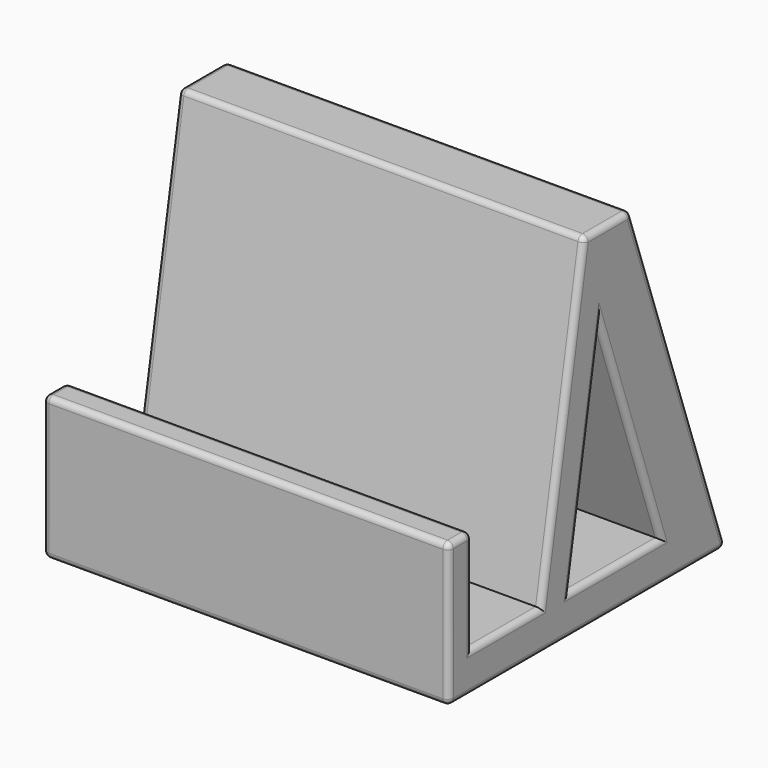
from build123d import *

# Parameters (mm, degrees)
F1_DEPTH = 88.9
F2_R     = 1.27


with BuildPart() as f1:
    # F0 (on Right) → F1 (new body)
    with BuildSketch(Plane.YZ):
        Polygon((0, 31.359232), (0, 0), (76.2, 0), (49.868776, 75.47603), (37.168776, 75.47603), (25.4, 8.731987), (6.35, 8.731987), (6.35, 31.359232), align=None)
        Polygon((33.137551, 8.731987), (41.547297, 56.42603), (58.127036, 8.731987), align=None, mode=Mode.SUBTRACT)
    extrude(amount=F1_DEPTH)

    # F2
    f2_edges = [f1.edges().sort_by_distance(p)[0] for p in [
        (88.9, 31.284388, 42.104009),
        (88.9, 63.034388, 37.738015),
        (88.9, 49.837166, 32.579009),
        (88.9, 37.342424, 32.579009),
        (44.45, 49.868776, 75.47603),
        (0, 63.034388, 37.738015),
        (0, 6.35, 20.04561),
        (0, 3.175, 31.359232),
        (0, 0, 15.679616),
        (0, 38.1, 0),
        (0, 43.518776, 75.47603),
        (0, 31.284388, 42.104009),
        (0, 15.875, 8.731987),
        (0, 45.632293, 8.731987),
        (0, 37.342424, 32.579009),
        (0, 49.837166, 32.579009),
        (44.45, 0, 0),
        (44.45, 0, 31.359232),
        (88.9, 6.35, 20.04561),
        (88.9, 3.175, 31.359232),
        (88.9, 0, 15.679616),
        (88.9, 38.1, 0),
        (88.9, 43.518776, 75.47603),
        (88.9, 15.875, 8.731987),
        (88.9, 45.632293, 8.731987),
        (44.45, 6.35, 31.359232),
        (44.45, 37.168776, 75.47603),
        (44.45, 76.2, 0),
    ]]
    fillet(f2_edges, radius=F2_R)


solid = f1.part
